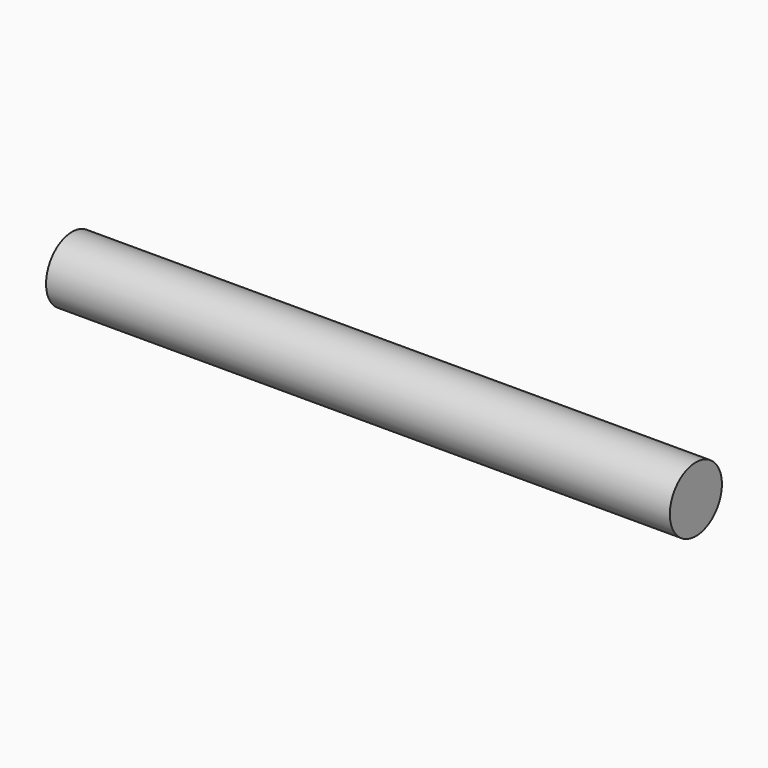
from build123d import *

# Parameters (mm, degrees)
F0_R           = 6
F1_DEPTH       = 115
F3_D           = 5
F3_DEPTH       = 25
F3_CSINK_D     = 11
F3_CSINK_ANGLE = 90
F3_TIP         = 1.5021515476


with BuildPart() as f1:
    # F0 (on Right) → F1 (new body)
    with BuildSketch(Plane.YZ):
        Circle(F0_R)
    extrude(amount=F1_DEPTH)

    # F3
    with Locations(Plane(origin=(0, 0, 0), x_dir=(0, -1, 0), z_dir=(-1, 0, 0))):
        with Locations((0, 0)):
            CounterSinkHole(F3_D / 2, F3_CSINK_D / 2, depth=F3_DEPTH, counter_sink_angle=F3_CSINK_ANGLE)
            with Locations((0, 0, -(F3_DEPTH + F3_TIP / 2))):  # 118° drill point
                Cone(0, F3_D / 2, F3_TIP, mode=Mode.SUBTRACT)


solid = f1.part
